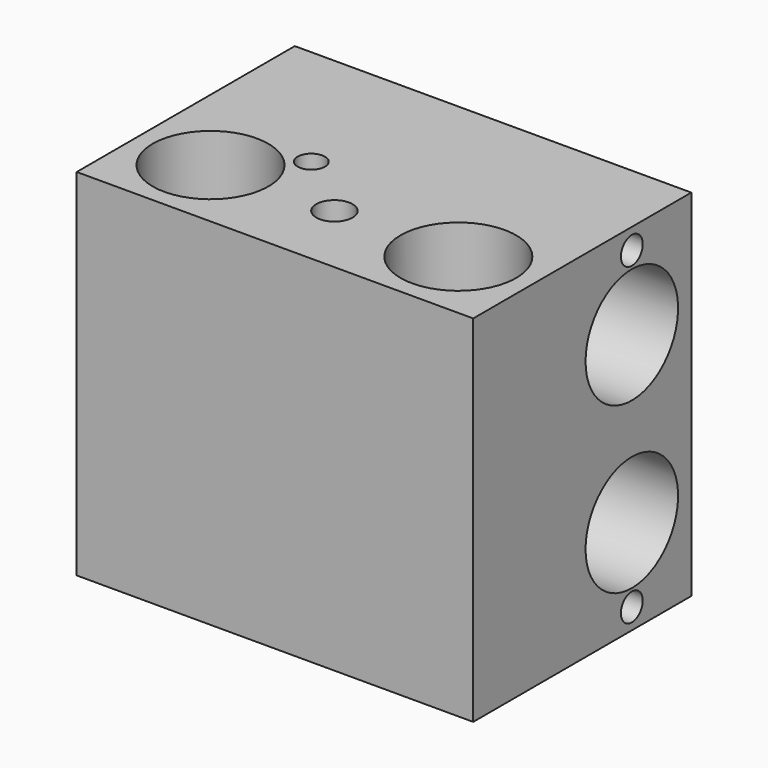
from build123d import *

# Parameters (mm, degrees)
F0_W      = 96
F0_H      = 86
F1_DEPTH  = 66
F3_D      = 28
F5_D      = 28
F7_D      = 8.8
F7_DEPTH  = 20
F7_TIP    = 2.6437867237
F9_D      = 6.6
F9_DEPTH  = 20
F9_TIP    = 1.9828400428
F11_D     = 6.6
F11_DEPTH = 20
F11_TIP   = 1.9828400428
F13_D     = 6.6
F13_DEPTH = 20
F13_TIP   = 1.9828400428
F15_D     = 6.6
F15_DEPTH = 20
F15_TIP   = 1.9828400428


with BuildPart() as f1:
    # F0 (on Front) → F1 (new body)
    with BuildSketch(Plane.XZ):
        with Locations((48, -43)):
            Rectangle(F0_W, F0_H)
    extrude(amount=-F1_DEPTH)

    # F3 (through all)
    with Locations(Plane.XY):
        with Locations((18, 18), (78, 18)):
            Hole(F3_D / 2)

    # F5 (through all)
    with Locations(Plane.YZ.offset(96)):
        with Locations((48, -23), (48, -63)):
            Hole(F5_D / 2)

    # F7
    with Locations(Plane.XY):
        with Locations((48, 18)):
            Hole(F7_D / 2, depth=F7_DEPTH)
            with Locations((0, 0, -(F7_DEPTH + F7_TIP / 2))):  # 118° drill point
                Cone(0, F7_D / 2, F7_TIP, mode=Mode.SUBTRACT)

    # F9
    with Locations(Plane.XY):
        with Locations((32, 31)):
            Hole(F9_D / 2, depth=F9_DEPTH)
            with Locations((0, 0, -(F9_DEPTH + F9_TIP / 2))):  # 118° drill point
                Cone(0, F9_D / 2, F9_TIP, mode=Mode.SUBTRACT)

    # F11
    with Locations(Plane.YZ.offset(96)):
        with Locations((48, -81), (48, -5)):
            Hole(F11_D / 2, depth=F11_DEPTH)
            with Locations((0, 0, -(F11_DEPTH + F11_TIP / 2))):  # 118° drill point
                Cone(0, F11_D / 2, F11_TIP, mode=Mode.SUBTRACT)

    # F13
    with Locations(Plane(origin=(0, 0, -86), x_dir=(1, 0, 0), z_dir=(0, 0, -1))):
        with Locations((32, -31)):
            Hole(F13_D / 2, depth=F13_DEPTH)
            with Locations((0, 0, -(F13_DEPTH + F13_TIP / 2))):  # 118° drill point
                Cone(0, F13_D / 2, F13_TIP, mode=Mode.SUBTRACT)

    # F15
    with Locations(Plane(origin=(0, 0, 0), x_dir=(0, -1, 0), z_dir=(-1, 0, 0))):
        with Locations((-56, -46), (-40, -40)):
            Hole(F15_D / 2, depth=F15_DEPTH)
            with Locations((0, 0, -(F15_DEPTH + F15_TIP / 2))):  # 118° drill point
                Cone(0, F15_D / 2, F15_TIP, mode=Mode.SUBTRACT)


solid = f1.part
